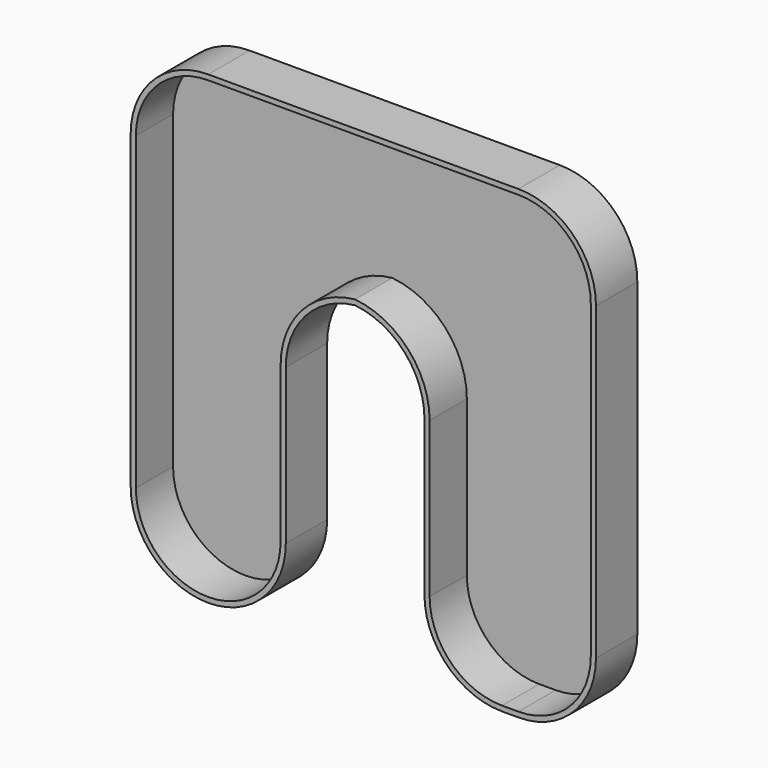
from build123d import *

# Parameters (mm, degrees)
F1_DEPTH = 10
F2_T     = -1


with BuildPart() as f1:
    # F0 (on Front) → F1 (new body)
    with BuildSketch(Plane.XZ):
        with BuildLine():
            ThreePointArc((-125.9934743535, 30), (-136.6000760713, 25.6066017178), (-140.9934743535, 15))
            Line((-140.9934743535, 15), (-140.9934743535, -45))
            ThreePointArc((-140.9934743535, -45), (-136.6000760713, -55.6066017178), (-125.9934743535, -60))
            ThreePointArc((-125.9934743535, -60), (-115.3868726357, -55.6066017178), (-110.9934743535, -45))
            Line((-110.9934743535, -45), (-110.9934743535, -15))
            ThreePointArc((-110.9934743535, -15), (-107.1472597175, -4.9703902342), (-97.5810647464, -0.084251385))
            ThreePointArc((-97.5810647464, -0.084251385), (-88.0148697752, -4.9703902342), (-84.1686551392, -15))
            Line((-84.1686551392, -15), (-84.1686551392, -45))
            ThreePointArc((-84.1686551392, -45), (-79.775256857, -55.6066017178), (-69.1686551392, -60))
            Line((-69.1686551392, -60), (-65.9934743535, -60))
            ThreePointArc((-65.9934743535, -60), (-55.3868726357, -55.6066017178), (-50.9934743535, -45))
            Line((-50.9934743535, -45), (-50.9934743535, 15))
            ThreePointArc((-50.9934743535, 15), (-55.3868726357, 25.6066017178), (-65.9934743535, 30))
            Line((-65.9934743535, 30), (-125.9934743535, 30))
        make_face()
        with BuildLine():
            ThreePointArc((-95.9934743535, 0), (-96.7883865423, -0.0210776552), (-97.5810647464, -0.084251385))
            ThreePointArc((-97.5810647464, -0.084251385), (-98.3737429505, -0.0210776552), (-99.1686551392, 0))
            Line((-99.1686551392, 0), (-95.9934743535, 0))
        make_face(mode=Mode.SUBTRACT)
        with BuildLine():
            ThreePointArc((-99.1686551392, 0), (-98.3737429505, -0.0210776552), (-97.5810647464, -0.084251385))
            ThreePointArc((-97.5810647464, -0.084251385), (-96.7883865423, -0.0210776552), (-95.9934743535, 0))
            Line((-95.9934743535, 0), (-99.1686551392, 0))
        make_face()
    extrude(amount=F1_DEPTH)

    # F2
    f2_openings = [f1.faces().sort_by_distance(p)[0] for p in [
        (-56.286873, -10, 24.706602),
    ]]
    offset(amount=F2_T, openings=f2_openings, kind=Kind.INTERSECTION)


solid = f1.part
